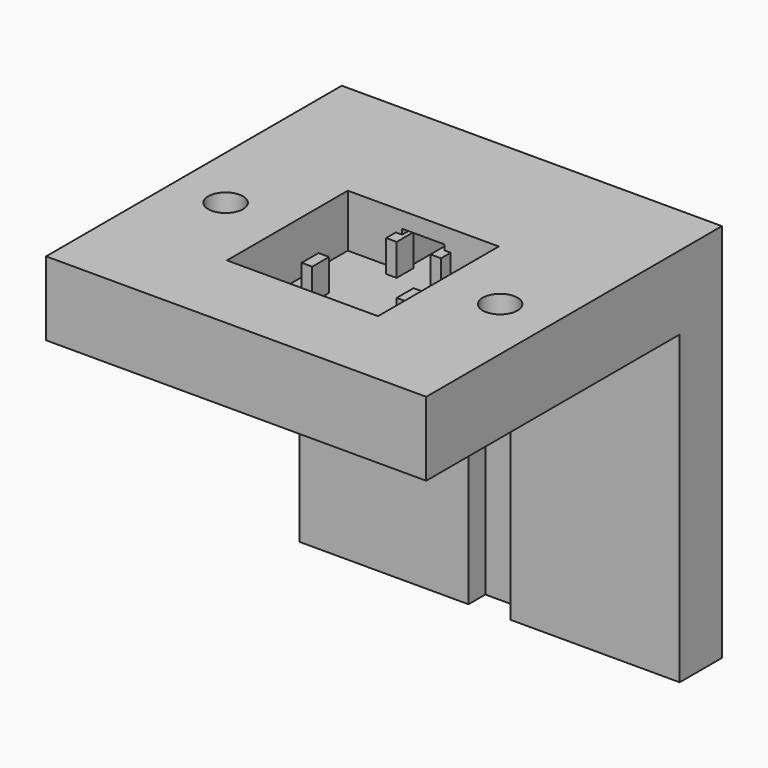
from build123d import *

# Parameters (mm, degrees)
BOX009_W          = 1
BOX009_H          = 2
BOX009_DEPTH      = 5
BOX010_W          = 1
BOX010_H          = 2
BOX010_DEPTH      = 5
BOX007_W          = 1
BOX007_H          = 2
BOX007_DEPTH      = 5
BOX008_W          = 1
BOX008_H          = 2
BOX008_DEPTH      = 5
BOX006_W          = 1
BOX006_H          = 2
BOX006_DEPTH      = 5
BOX005_W          = 1
BOX005_H          = 2
BOX005_DEPTH      = 5
CYLINDER003_R     = 1.65
CYLINDER003_DEPTH = 10
CYLINDER002_R     = 1.65
CYLINDER002_DEPTH = 10
BOX004_W          = 4
BOX004_H          = 12
BOX004_DEPTH      = 3.5
BOX003_W          = 4
BOX003_H          = 2
BOX003_DEPTH      = 36
BOX002_W          = 14.3
BOX002_H          = 14.3
BOX002_DEPTH      = 10
BOX001_W          = 36
BOX001_H          = 5
BOX001_DEPTH      = 36
BOX_W             = 36
BOX_H             = 35
BOX_DEPTH         = 7


with BuildPart() as cube009:
    # Box009 → Box009 (new body)
    with BuildSketch(Plane(origin=(-2.6, 10, 0), x_dir=(1, 0, 0), z_dir=(0, 0, 1))):
        with Locations((0.5, 1)):
            Rectangle(BOX009_W, BOX009_H)
    extrude(amount=BOX009_DEPTH)


with BuildPart() as fusion002:
    # Box010 → Box010 (new body)
    with BuildSketch(Plane(origin=(1.6, 10, 0), x_dir=(1, 0, 0), z_dir=(0, 0, 1))):
        with Locations((0.5, 1)):
            Rectangle(BOX010_W, BOX010_H)
    extrude(amount=BOX010_DEPTH)

    # Fusion002: union Cube009
    add(cube009.part)


with BuildPart() as fusion002_1:
    # Fusion002 placement: moved
    add(fusion002.part.moved(Location((0, 11, 0))))


with BuildPart() as cube007:
    # Box007 → Box007 (new body)
    with BuildSketch(Plane(origin=(-2.6, 10, 0), x_dir=(1, 0, 0), z_dir=(0, 0, 1))):
        with Locations((0.5, 1)):
            Rectangle(BOX007_W, BOX007_H)
    extrude(amount=BOX007_DEPTH)


with BuildPart() as fusion001:
    # Box008 → Box008 (new body)
    with BuildSketch(Plane(origin=(1.6, 10, 0), x_dir=(1, 0, 0), z_dir=(0, 0, 1))):
        with Locations((0.5, 1)):
            Rectangle(BOX008_W, BOX008_H)
    extrude(amount=BOX008_DEPTH)

    # Fusion001: union Cube007
    add(cube007.part)


with BuildPart() as fusion001_1:
    # Fusion001 placement: moved
    add(fusion001.part.moved(Location((0, -3.2, 0))))


with BuildPart() as cube006:
    # Box006 → Box006 (new body)
    with BuildSketch(Plane(origin=(-5, 14, 0), x_dir=(1, 0, 0), z_dir=(0, 0, 1))):
        with Locations((0.5, 1)):
            Rectangle(BOX006_W, BOX006_H)
    extrude(amount=BOX006_DEPTH)


with BuildPart() as fusion006:
    # Box005 → Box005 (new body)
    with BuildSketch(Plane(origin=(4, 14, 0), x_dir=(1, 0, 0), z_dir=(0, 0, 1))):
        with Locations((0.5, 1)):
            Rectangle(BOX005_W, BOX005_H)
    extrude(amount=BOX005_DEPTH)

    # Fusion005: union Cube006
    add(cube006.part)

    # Fusion006: union Fusion002, Fusion001
    add(fusion002_1.part)
    add(fusion001_1.part)


with BuildPart() as cylinder003:
    # Cylinder003 → Cylinder003 (new body)
    with BuildSketch(Plane(origin=(13, 15, 0), x_dir=(1, 0, 0), z_dir=(0, 0, 1))):
        Circle(CYLINDER003_R)
    extrude(amount=CYLINDER003_DEPTH)


with BuildPart() as fusion003:
    # Cylinder002 → Cylinder002 (new body)
    with BuildSketch(Plane(origin=(-13, 15, 0), x_dir=(1, 0, 0), z_dir=(0, 0, 1))):
        Circle(CYLINDER002_R)
    extrude(amount=CYLINDER002_DEPTH)

    # Fusion003: union Cylinder003
    add(cylinder003.part)


with BuildPart() as cube004:
    # Box004 → Box004 (new body)
    with BuildSketch(Plane(origin=(-2, 20, 2), x_dir=(1, 0, 0), z_dir=(0, 0, 1))):
        with Locations((2, 6)):
            Rectangle(BOX004_W, BOX004_H)
    extrude(amount=BOX004_DEPTH)


with BuildPart() as cube003:
    # Box003 → Box003 (new body)
    with BuildSketch(Plane(origin=(-2, 30, -31), x_dir=(1, 0, 0), z_dir=(0, 0, 1))):
        with Locations((2, 1)):
            Rectangle(BOX003_W, BOX003_H)
    extrude(amount=BOX003_DEPTH)


with BuildPart() as cube002:
    # Box002 → Box002 (new body)
    with BuildSketch(Plane(origin=(-7.15, 7.85, 2), x_dir=(1, 0, 0), z_dir=(0, 0, 1))):
        with Locations((7.15, 7.15)):
            Rectangle(BOX002_W, BOX002_H)
    extrude(amount=BOX002_DEPTH)


with BuildPart() as cube001:
    # Box001 → Box001 (new body)
    with BuildSketch(Plane(origin=(-18, 30, -29), x_dir=(1, 0, 0), z_dir=(0, 0, 1))):
        with Locations((18, 2.5)):
            Rectangle(BOX001_W, BOX001_H)
    extrude(amount=BOX001_DEPTH)


with BuildPart() as fusion007:
    # Box → Box (new body)
    with BuildSketch(Plane(origin=(-18, 0, 0), x_dir=(1, 0, 0), z_dir=(0, 0, 1))):
        with Locations((18, 17.5)):
            Rectangle(BOX_W, BOX_H)
    extrude(amount=BOX_DEPTH)

    # Fusion: union Cube001
    add(cube001.part)

    # Cut: cut Cube002
    add(cube002.part, mode=Mode.SUBTRACT)

    # Cut001: cut Cube003
    add(cube003.part, mode=Mode.SUBTRACT)

    # Cut002: cut Cube004
    add(cube004.part, mode=Mode.SUBTRACT)

    # Cut003: cut Fusion003
    add(fusion003.part, mode=Mode.SUBTRACT)

    # Fusion007: union Fusion006
    add(fusion006.part)


solid = fusion007.part
